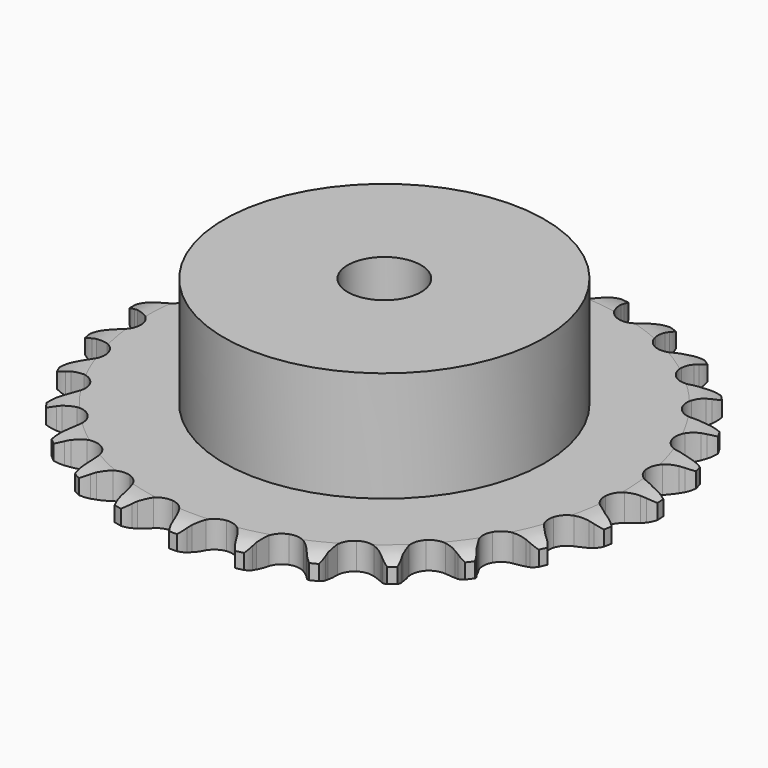
from build123d import *

# Parameters (mm, degrees)
PAD_DEPTH         = 5.9
SKETCH001_R       = 35
PAD001_DEPTH      = 30
SKETCH002_R       = 8
POCKET_DEPTH      = 0.001
POCKET_DEPTH_BACK = 30.001


with BuildPart() as part:
    # Sprocket → Pad (new body)
    with BuildSketch(Plane.XY):
        with BuildLine():
            ThreePointArc((-6.823525, 58.378983), (-5.678024, 57.18562), (-4.88095, 55.736152))
            Line((-4.88095, 55.736152), (-4.503545, 54.767973))
            ThreePointArc((-4.503545, 54.767973), (-3.902713, 53.495626), (-3.131412, 52.318782))
            ThreePointArc((-3.131412, 52.318782), (-1.747834, 51.174864), (0, 50.765092))
            ThreePointArc((0, 50.765092), (1.747834, 51.174864), (3.131412, 52.318782))
            ThreePointArc((3.131412, 52.318782), (3.902713, 53.495626), (4.503545, 54.767973))
            Line((4.503545, 54.767973), (4.88095, 55.736152))
            ThreePointArc((4.88095, 55.736152), (5.678024, 57.18562), (6.823525, 58.378983))
            ThreePointArc((6.823525, 58.378983), (7.662939, 56.953617), (8.104258, 55.359402))
            Line((8.104258, 55.359402), (8.248213, 54.330284))
            ThreePointArc((8.248213, 54.330284), (8.539426, 52.953672), (9.018537, 51.630676))
            ThreePointArc((9.018537, 51.630676), (10.101015, 50.198517), (11.707236, 49.396713))
            ThreePointArc((11.707236, 49.396713), (13.502456, 49.392361), (15.112545, 50.186369))
            Line((15.112545, 50.186369), (17.012515, 52.253107))
            ThreePointArc((17.012515, 52.253107), (17.296801, 52.688205), (17.603025, 53.108153))
            ThreePointArc((17.603025, 53.108153), (18.712884, 54.334732), (20.102716, 55.231757))
            ThreePointArc((20.102716, 55.231757), (20.590792, 53.65123), (20.652563, 51.998211))
            Line((20.652563, 51.998211), (20.555307, 50.963636))
            ThreePointArc((20.555307, 50.963636), (20.521202, 49.556972), (20.682295, 48.159146))
            ThreePointArc((20.682295, 48.159146), (21.405316, 46.515955), (22.783332, 45.365344))
            ThreePointArc((22.783332, 45.365344), (24.529158, 44.947103), (26.278958, 45.348396))
            Line((26.278958, 45.348396), (28.604336, 46.921261))
            ThreePointArc((28.604336, 46.921261), (28.9813, 47.27907), (29.376116, 47.617079))
            ThreePointArc((29.376116, 47.617079), (30.738927, 48.554644), (32.298164, 49.106973))
            ThreePointArc((32.298164, 49.106973), (32.408589, 47.45649), (32.087484, 45.833784))
            Line((32.087484, 45.833784), (31.754259, 44.849524))
            ThreePointArc((31.754259, 44.849524), (31.396674, 43.488642), (31.231064, 42.091345))
            ThreePointArc((31.231064, 42.091345), (31.55565, 40.325706), (32.631172, 38.888317))
            ThreePointArc((32.631172, 38.888317), (34.233487, 38.078735), (36.028665, 38.06568))
            Line((36.028665, 38.06568), (38.65409, 39.059879))
            ThreePointArc((38.65409, 39.059879), (39.103409, 39.321109), (39.565533, 39.558956))
            ThreePointArc((39.565533, 39.558956), (41.107827, 40.156963), (42.75241, 40.334819))
            ThreePointArc((42.75241, 40.334819), (42.479232, 38.703359), (41.792559, 37.198445))
            Line((41.792559, 37.198445), (41.241331, 36.317563))
            ThreePointArc((41.241331, 36.317563), (40.579544, 35.075829), (40.096159, 33.754388))
            ThreePointArc((40.096159, 33.754388), (40.004812, 31.961488), (40.719858, 30.314811))
            ThreePointArc((40.719858, 30.314811), (42.092279, 29.157532), (43.836058, 28.730832))
            Line((43.836058, 28.730832), (46.619992, 29.092768))
            ThreePointArc((46.619992, 29.092768), (47.117444, 29.243337), (47.621962, 29.368199))
            ThreePointArc((47.621962, 29.368199), (49.260593, 29.59441), (50.901863, 29.388204))
            ThreePointArc((50.901863, 29.388204), (50.259807, 27.86372), (49.244587, 26.557729))
            Line((49.244587, 26.557729), (48.505072, 25.827713))
            ThreePointArc((48.505072, 25.827713), (47.57476, 24.772068), (46.799659, 23.597723))
            ThreePointArc((46.799659, 23.597723), (46.297303, 21.874217), (46.613326, 20.107026))
            ThreePointArc((46.613326, 20.107026), (47.681866, 18.664439), (49.280237, 17.847098))
            Line((49.280237, 17.847098), (52.072598, 17.557259))
            ThreePointArc((52.072598, 17.557259), (52.591364, 17.589049), (53.111078, 17.594195))
            ThreePointArc((53.111078, 17.594195), (54.757708, 17.436414), (56.307183, 16.857264))
            ThreePointArc((56.307183, 16.857264), (55.330864, 15.521941), (54.041827, 14.485279))
            Line((54.041827, 14.485279), (53.153892, 13.945485))
            ThreePointArc((53.153892, 13.945485), (52.005208, 13.13284), (50.980178, 12.1689))
            ThreePointArc((50.980178, 12.1689), (50.093895, 10.607702), (49.993857, 8.815266))
            ThreePointArc((49.993857, 8.815266), (50.700911, 7.165142), (52.067706, 6.001223))
            Line((52.067706, 6.001223), (54.717957, 5.075233))
            ThreePointArc((54.717957, 5.075233), (55.230071, 4.98653), (55.736963, 4.871684))
            ThreePointArc((55.736963, 4.871684), (57.302821, 4.338417), (58.676968, 3.417544))
            ThreePointArc((58.676968, 3.417544), (57.419019, 2.34337), (55.925658, 1.631923))
            Line((55.925658, 1.631923), (54.937172, 1.311451))
            ThreePointArc((54.937172, 1.311451), (53.632042, 0.785616), (52.412342, 0.084047))
            ThreePointArc((52.412342, 0.084047), (51.189912, -1.230677), (50.679206, -2.951728))
            ThreePointArc((50.679206, -2.951728), (50.986657, -4.72043), (52.048191, -6.16818))
            Line((52.048191, -6.16818), (54.413457, -7.6804))
            ThreePointArc((54.413457, -7.6804), (54.89131, -7.884813), (55.358054, -8.113461))
            ThreePointArc((55.358054, -8.113461), (56.758724, -8.993466), (57.883462, -10.206416))
            ThreePointArc((57.883462, -10.206416), (56.4117, -10.961533), (54.794522, -11.30941))
            Line((54.794522, -11.30941), (53.758775, -11.393283))
            ThreePointArc((53.758775, -11.393283), (52.367559, -11.603961), (51.018943, -12.005336))
            ThreePointArc((51.018943, -12.005336), (49.526268, -13.00271), (48.632426, -14.559593))
            ThreePointArc((48.632426, -14.559593), (48.523699, -16.351523), (49.222745, -18.005055))
            Line((49.222745, -18.005055), (51.175513, -20.02198))
            ThreePointArc((51.175513, -20.02198), (51.593345, -20.331085), (51.994777, -20.661207))
            ThreePointArc((51.994777, -20.661207), (53.154749, -21.840508), (53.969445, -23.280146))
            ThreePointArc((53.969445, -23.280146), (52.363212, -23.675497), (50.709399, -23.64105))
            Line((50.709399, -23.64105), (49.682229, -23.483803))
            ThreePointArc((49.682229, -23.483803), (48.279927, -23.367965), (46.8751, -23.447509))
            ThreePointArc((46.8751, -23.447509), (45.192649, -24.073764), (43.96386, -25.382546))
            ThreePointArc((43.96386, -25.382546), (43.444816, -27.1011), (43.743688, -28.871273))
            Line((43.743688, -28.871273), (45.178684, -31.284171))
            ThreePointArc((45.178684, -31.284171), (45.513969, -31.681302), (45.828449, -32.095103))
            ThreePointArc((45.828449, -32.095103), (46.685188, -33.510123), (47.14592, -35.098837))
            ThreePointArc((47.14592, -35.098837), (45.49181, -35.113109), (43.890519, -34.698194))
            Line((43.890519, -34.698194), (42.9273, -34.308304))
            ThreePointArc((42.9273, -34.308304), (41.589512, -33.872196), (40.204208, -33.62562))
            ThreePointArc((40.204208, -33.62562), (38.422684, -33.846995), (36.92519, -34.83712))
            ThreePointArc((36.92519, -34.83712), (36.023811, -36.389651), (35.906398, -38.181033))
            Line((35.906398, -38.181033), (36.74626, -40.859823))
            ThreePointArc((36.74626, -40.859823), (36.980923, -41.323572), (37.191497, -41.798743))
            ThreePointArc((37.191497, -41.798743), (37.698816, -43.373199), (37.780747, -45.025341))
            ThreePointArc((37.780747, -45.025341), (36.167932, -44.657764), (34.70549, -43.88475))
            Line((34.70549, -43.88475), (33.85815, -43.283236))
            ThreePointArc((33.85815, -43.283236), (32.656995, -42.550368), (31.365897, -41.990966))
            ThreePointArc((31.365897, -41.990966), (29.581341, -41.795525), (27.895874, -42.413616))
            ThreePointArc((27.895874, -42.413616), (26.660754, -43.716426), (26.133384, -45.432443))
            Line((26.133384, -45.432443), (26.332836, -48.232712))
            ThreePointArc((26.332836, -48.232712), (26.454226, -48.738077), (26.549542, -49.249002))
            ThreePointArc((26.549542, -49.249002), (26.680092, -50.898014), (26.378804, -52.524517))
            ThreePointArc((26.378804, -52.524517), (24.894232, -51.794907), (23.649479, -50.705468))
            Line((23.649479, -50.705468), (22.963698, -49.924757))
            ThreePointArc((22.963698, -49.924757), (21.963932, -48.934639), (20.836642, -48.092567))
            ThreePointArc((20.836642, -48.092567), (19.145261, -47.490848), (17.362684, -47.703583))
            ThreePointArc((17.362684, -47.703583), (15.860408, -48.686437), (14.951513, -50.234579))
            Line((14.951513, -50.234579), (14.499802, -53.005363))
            ThreePointArc((14.499802, -53.005363), (14.501375, -53.5251), (14.476294, -54.044234))
            ThreePointArc((14.476294, -54.044234), (14.223037, -55.678904), (13.554773, -57.192083))
            ThreePointArc((13.554773, -57.192083), (12.278477, -56.139773), (11.318519, -54.792641))
            Line((11.318519, -54.792641), (10.831267, -53.874822))
            ThreePointArc((10.831267, -53.874822), (10.086787, -52.68083), (9.184078, -51.601486))
            ThreePointArc((9.184078, -51.601486), (7.677055, -50.625927), (5.893468, -50.421837))
            ThreePointArc((5.893468, -50.421837), (4.205024, -51.031749), (2.963602, -52.328556))
            Line((2.963602, -52.328556), (1.88508, -54.920481))
            ThreePointArc((1.88508, -54.920481), (1.766751, -55.426572), (1.622626, -55.925928))
            ThreePointArc((1.622626, -55.925928), (0.999214, -57.45813), (0, -58.776408))
            ThreePointArc((0, -58.776408), (-0.999214, -57.45813), (-1.622626, -55.925928))
            Line((-1.622626, -55.925928), (-1.88508, -54.920481))
            ThreePointArc((-1.88508, -54.920481), (-2.334139, -53.586985), (-2.963602, -52.328556))
            ThreePointArc((-2.963602, -52.328556), (-4.205024, -51.031749), (-5.893468, -50.421837))
            ThreePointArc((-5.893468, -50.421837), (-7.677055, -50.625927), (-9.184078, -51.601486))
            Line((-9.184078, -51.601486), (-10.831267, -53.874822))
            ThreePointArc((-10.831267, -53.874822), (-11.063119, -54.339982), (-11.318519, -54.792641))
            ThreePointArc((-11.318519, -54.792641), (-12.278477, -56.139773), (-13.554773, -57.192083))
            ThreePointArc((-13.554773, -57.192083), (-14.223037, -55.678904), (-14.476294, -54.044234))
            Line((-14.476294, -54.044234), (-14.499802, -53.005363))
            ThreePointArc((-14.499802, -53.005363), (-14.629232, -51.604251), (-14.951513, -50.234579))
            ThreePointArc((-14.951513, -50.234579), (-15.860408, -48.686437), (-17.362684, -47.703583))
            ThreePointArc((-17.362684, -47.703583), (-19.145261, -47.490848), (-20.836642, -48.092567))
            Line((-20.836642, -48.092567), (-22.963698, -49.924757))
            ThreePointArc((-22.963698, -49.924757), (-23.296574, -50.32391), (-23.649479, -50.705468))
            ThreePointArc((-23.649479, -50.705468), (-24.894232, -51.794907), (-26.378804, -52.524517))
            ThreePointArc((-26.378804, -52.524517), (-26.680092, -50.898014), (-26.549542, -49.249002))
            Line((-26.549542, -49.249002), (-26.332836, -48.232712))
            ThreePointArc((-26.332836, -48.232712), (-26.135658, -46.839519), (-26.133384, -45.432443))
            ThreePointArc((-26.133384, -45.432443), (-26.660754, -43.716426), (-27.895874, -42.413616))
            ThreePointArc((-27.895874, -42.413616), (-29.581341, -41.795525), (-31.365897, -41.990966))
            Line((-31.365897, -41.990966), (-33.85815, -43.283236))
            ThreePointArc((-33.85815, -43.283236), (-34.274104, -43.594863), (-34.70549, -43.88475))
            ThreePointArc((-34.70549, -43.88475), (-36.167932, -44.657764), (-37.780747, -45.025341))
            ThreePointArc((-37.780747, -45.025341), (-37.698816, -43.373199), (-37.191497, -41.798743))
            Line((-37.191497, -41.798743), (-36.74626, -40.859823))
            ThreePointArc((-36.74626, -40.859823), (-36.233104, -39.549656), (-35.906398, -38.181033))
            ThreePointArc((-35.906398, -38.181033), (-36.023811, -36.389651), (-36.92519, -34.83712))
            ThreePointArc((-36.92519, -34.83712), (-38.422684, -33.846995), (-40.204208, -33.62562))
            Line((-40.204208, -33.62562), (-42.9273, -34.308304))
            ThreePointArc((-42.9273, -34.308304), (-43.403908, -34.515605), (-43.890519, -34.698194))
            ThreePointArc((-43.890519, -34.698194), (-45.49181, -35.113109), (-47.14592, -35.098837))
            ThreePointArc((-47.14592, -35.098837), (-46.685188, -33.510123), (-45.828449, -32.095103))
            Line((-45.828449, -32.095103), (-45.178684, -31.284171))
            ThreePointArc((-45.178684, -31.284171), (-44.377215, -30.127661), (-43.743688, -28.871273))
            ThreePointArc((-43.743688, -28.871273), (-43.444816, -27.1011), (-43.96386, -25.382546))
            ThreePointArc((-43.96386, -25.382546), (-45.192649, -24.073764), (-46.8751, -23.447509))
            Line((-46.8751, -23.447509), (-49.682229, -23.483803))
            ThreePointArc((-49.682229, -23.483803), (-50.193797, -23.575602), (-50.709399, -23.64105))
            ThreePointArc((-50.709399, -23.64105), (-52.363212, -23.675497), (-53.969445, -23.280146))
            ThreePointArc((-53.969445, -23.280146), (-53.154749, -21.840508), (-51.994777, -20.661207))
            Line((-51.994777, -20.661207), (-51.175513, -20.02198))
            ThreePointArc((-51.175513, -20.02198), (-50.128938, -19.081476), (-49.222745, -18.005055))
            ThreePointArc((-49.222745, -18.005055), (-48.523699, -16.351523), (-48.632426, -14.559593))
            ThreePointArc((-48.632426, -14.559593), (-49.526268, -13.00271), (-51.018943, -12.005336))
            Line((-51.018943, -12.005336), (-53.758775, -11.393283))
            ThreePointArc((-53.758775, -11.393283), (-54.277724, -11.364633), (-54.794522, -11.30941))
            ThreePointArc((-54.794522, -11.30941), (-56.4117, -10.961533), (-57.883462, -10.206416))
            ThreePointArc((-57.883462, -10.206416), (-56.758724, -8.993466), (-55.358054, -8.113461))
            Line((-55.358054, -8.113461), (-54.413457, -7.6804))
            ThreePointArc((-54.413457, -7.6804), (-53.178197, -7.006604), (-52.048191, -6.16818))
            ThreePointArc((-52.048191, -6.16818), (-50.986657, -4.72043), (-50.679206, -2.951728))
            ThreePointArc((-50.679206, -2.951728), (-51.189912, -1.230677), (-52.412342, 0.084047))
            Line((-52.412342, 0.084047), (-54.937172, 1.311451))
            ThreePointArc((-54.937172, 1.311451), (-55.435526, 1.459007), (-55.925658, 1.631923))
            ThreePointArc((-55.925658, 1.631923), (-57.419019, 2.34337), (-58.676968, 3.417544))
            ThreePointArc((-58.676968, 3.417544), (-57.302821, 4.338417), (-55.736963, 4.871684))
            Line((-55.736963, 4.871684), (-54.717957, 5.075233))
            ThreePointArc((-54.717957, 5.075233), (-53.360606, 5.445996), (-52.067706, 6.001223))
            ThreePointArc((-52.067706, 6.001223), (-50.700911, 7.165142), (-49.993857, 8.815266))
            ThreePointArc((-49.993857, 8.815266), (-50.093895, 10.607702), (-50.980178, 12.1689))
            Line((-50.980178, 12.1689), (-53.153892, 13.945485))
            ThreePointArc((-53.153892, 13.945485), (-53.604784, 14.203991), (-54.041827, 14.485279))
            ThreePointArc((-54.041827, 14.485279), (-55.330864, 15.521941), (-56.307183, 16.857264))
            ThreePointArc((-56.307183, 16.857264), (-54.757708, 17.436414), (-53.111078, 17.594195))
            Line((-53.111078, 17.594195), (-52.072598, 17.557259))
            ThreePointArc((-52.072598, 17.557259), (-50.666331, 17.605002), (-49.280237, 17.847098))
            ThreePointArc((-49.280237, 17.847098), (-47.681866, 18.664439), (-46.613326, 20.107026))
            ThreePointArc((-46.613326, 20.107026), (-46.297303, 21.874217), (-46.799659, 23.597723))
            Line((-46.799659, 23.597723), (-48.505072, 25.827713))
            ThreePointArc((-48.505072, 25.827713), (-48.884194, 26.183235), (-49.244587, 26.557729))
            ThreePointArc((-49.244587, 26.557729), (-50.259807, 27.86372), (-50.901863, 29.388204))
            ThreePointArc((-50.901863, 29.388204), (-49.260593, 29.59441), (-47.621962, 29.368199))
            Line((-47.621962, 29.368199), (-46.619992, 29.092768))
            ThreePointArc((-46.619992, 29.092768), (-45.240621, 28.814916), (-43.836058, 28.730832))
            ThreePointArc((-43.836058, 28.730832), (-42.092279, 29.157532), (-40.719858, 30.314811))
            ThreePointArc((-40.719858, 30.314811), (-40.004812, 31.961488), (-40.096159, 33.754388))
            Line((-40.096159, 33.754388), (-41.241331, 36.317563))
            ThreePointArc((-41.241331, 36.317563), (-41.528245, 36.750933), (-41.792559, 37.198445))
            ThreePointArc((-41.792559, 37.198445), (-42.479232, 38.703359), (-42.75241, 40.334819))
            ThreePointArc((-42.75241, 40.334819), (-41.107827, 40.156963), (-39.565533, 39.558956))
            Line((-39.565533, 39.558956), (-38.65409, 39.059879))
            ThreePointArc((-38.65409, 39.059879), (-37.375977, 38.471412), (-36.028665, 38.06568))
            ThreePointArc((-36.028665, 38.06568), (-34.233487, 38.078735), (-32.631172, 38.888317))
            ThreePointArc((-32.631172, 38.888317), (-31.55565, 40.325706), (-31.231064, 42.091345))
            Line((-31.231064, 42.091345), (-31.754259, 44.849524))
            ThreePointArc((-31.754259, 44.849524), (-31.933497, 45.33738), (-32.087484, 45.833784))
            ThreePointArc((-32.087484, 45.833784), (-32.408589, 47.45649), (-32.298164, 49.106973))
            ThreePointArc((-32.298164, 49.106973), (-30.738927, 48.554644), (-29.376116, 47.617079))
            Line((-29.376116, 47.617079), (-28.604336, 46.921261))
            ThreePointArc((-28.604336, 46.921261), (-27.496384, 46.053903), (-26.278958, 45.348396))
            ThreePointArc((-26.278958, 45.348396), (-24.529158, 44.947103), (-22.783332, 45.365344))
            ThreePointArc((-22.783332, 45.365344), (-21.405316, 46.515955), (-20.682295, 48.159146))
            Line((-20.682295, 48.159146), (-20.555307, 50.963636))
            ThreePointArc((-20.555307, 50.963636), (-20.617207, 51.479676), (-20.652563, 51.998211))
            ThreePointArc((-20.652563, 51.998211), (-20.590792, 53.65123), (-20.102716, 55.231757))
            ThreePointArc((-20.102716, 55.231757), (-18.712884, 54.334732), (-17.603025, 53.108153))
            Line((-17.603025, 53.108153), (-17.012515, 52.253107))
            ThreePointArc((-17.012515, 52.253107), (-16.134455, 51.153617), (-15.112545, 50.186369))
            ThreePointArc((-15.112545, 50.186369), (-13.502456, 49.392361), (-11.707236, 49.396713))
            ThreePointArc((-11.707236, 49.396713), (-10.101015, 50.198517), (-9.018537, 51.630676))
            Line((-9.018537, 51.630676), (-8.248213, 54.330284))
            ThreePointArc((-8.248213, 54.330284), (-8.189437, 54.84669), (-8.104258, 55.359402))
            ThreePointArc((-8.104258, 55.359402), (-7.662939, 56.953617), (-6.823525, 58.378983))
        make_face()
    extrude(amount=PAD_DEPTH)

    # Sketch → Groove (revolve, cut)
    with BuildSketch(Plane.XZ):
        with BuildLine():
            Line((52.033431, 0), (57.7, 0))
            Line((63.366569, 0), (57.7, 0))
            Line((63.366569, 5.9), (63.366569, 0))
            Line((57.7, 5.9), (63.366569, 5.9))
            Line((52.033431, 5.9), (57.7, 5.9))
            ThreePointArc((57.7, 4.6), (54.94032, 5.570833), (52.033431, 5.9))
            Line((57.7, 1.3), (57.7, 4.6))
            ThreePointArc((52.033431, 0), (54.94032, 0.329167), (57.7, 1.3))
        make_face()
    revolve(axis=Axis((0, 0, 0), (0, 0, 1)), mode=Mode.SUBTRACT)

    # Sketch001 → Pad001 (join)
    with BuildSketch(Plane.XY):
        Circle(SKETCH001_R)
    extrude(amount=PAD001_DEPTH)

    # Sketch002 → Pocket (cut, two sides)
    with BuildSketch(Plane.XY) as pocket_sk:
        Circle(SKETCH002_R)
    extrude(amount=-POCKET_DEPTH, mode=Mode.SUBTRACT)
    extrude(pocket_sk.sketch, amount=POCKET_DEPTH_BACK, mode=Mode.SUBTRACT)


solid = part.part
